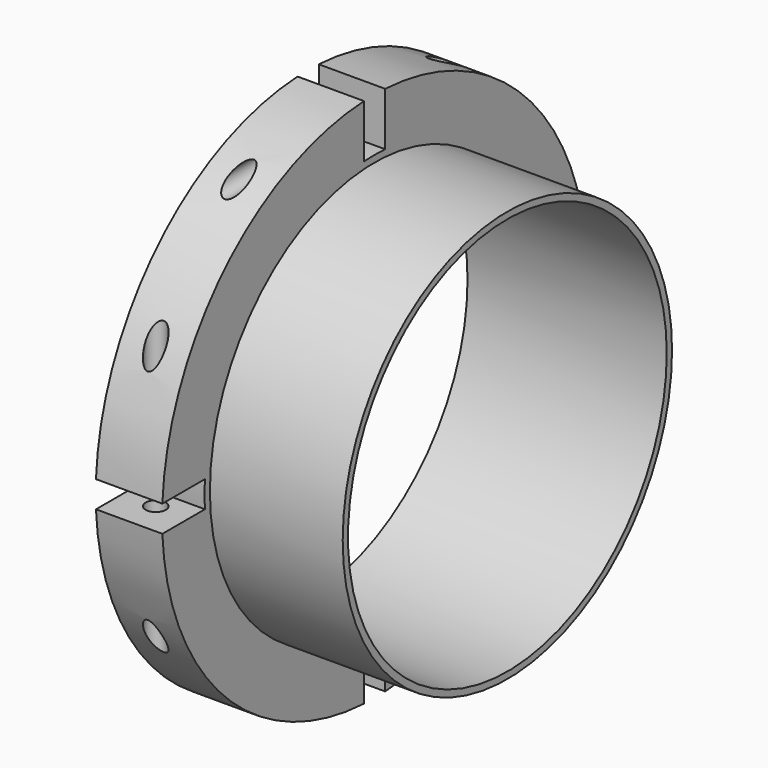
from build123d import *

# Parameters (mm, degrees)
F0_R      = 50.8
F0_R_2    = 38.1
F1_DEPTH  = 19.05
F2_R      = 50.8
F2_R_2    = 39.37
F3_DEPTH  = 25.4
F5_DEPTH  = 12.7
F6_DEPTH  = 12.7
F7_R      = 1.9177
F8_DEPTH  = 31.75
F9_R      = 1.9177
F10_DEPTH = 31.75
F11_R     = 1.9177
F12_DEPTH = 31.75
F13_R     = 1.9177
F14_DEPTH = 31.75


with BuildPart() as f1:
    # F0 (on Right) → F1 (new body, symmetric)
    with BuildSketch(Plane.YZ):
        Circle(F0_R)
        Circle(F0_R_2, mode=Mode.SUBTRACT)
    extrude(amount=F1_DEPTH, both=True)

    # F2 (on face) → F3 (cut)
    with BuildSketch(Plane.YZ.offset(19.05)):
        Circle(F2_R)
        Circle(F2_R_2, mode=Mode.SUBTRACT)
    extrude(amount=-F3_DEPTH, mode=Mode.SUBTRACT)

    # F4 (on face) → F5 (cut)
    with BuildSketch(Plane(origin=(-19.05, 0, 0), x_dir=(0, -1, 0), z_dir=(-1, 0, 0))):
        with BuildLine():
            Line((40.560758, -2.536629), (52.733429, -2.536629))
            Line((52.733429, -2.536629), (52.733429, 2.536629))
            Line((52.733429, 2.536629), (40.560758, 2.536629))
            ThreePointArc((40.560758, 2.536629), (40.64, 0), (40.560758, -2.536629))
        make_face()
        with BuildLine():
            Line((-59.67196, -2.536629), (-40.560758, -2.536629))
            ThreePointArc((-40.560758, -2.536629), (-40.64, 0), (-40.560758, 2.536629))
            Line((-40.560758, 2.536629), (-59.67196, 2.536629))
            Line((-59.67196, 2.536629), (-59.67196, -2.536629))
        make_face()
        with BuildLine():
            Line((-2.536629, -60.94672), (2.536629, -60.94672))
            Line((2.536629, -60.94672), (2.536629, -40.560758))
            ThreePointArc((2.536629, -40.560758), (0, -40.64), (-2.536629, -40.560758))
            Line((-2.536629, -40.560758), (-2.536629, -60.94672))
        make_face()
        with BuildLine():
            Line((2.536629, 40.560758), (2.536629, 60.431999))
            Line((2.536629, 60.431999), (-2.536629, 60.431999))
            Line((-2.536629, 60.431999), (-2.536629, 40.560758))
            ThreePointArc((-2.536629, 40.560758), (0, 40.64), (2.536629, 40.560758))
        make_face()
    extrude(amount=-F5_DEPTH, mode=Mode.SUBTRACT)

    # F4 (on face) → F6 (cut)
    with BuildSketch(Plane(origin=(-19.05, 0, 0), x_dir=(0, -1, 0), z_dir=(-1, 0, 0))):
        with BuildLine():
            Line((40.560758, -2.536629), (52.733429, -2.536629))
            Line((52.733429, -2.536629), (52.733429, 2.536629))
            Line((52.733429, 2.536629), (40.560758, 2.536629))
            ThreePointArc((40.560758, 2.536629), (40.64, 0), (40.560758, -2.536629))
        make_face()
        with BuildLine():
            Line((-59.67196, -2.536629), (-40.560758, -2.536629))
            ThreePointArc((-40.560758, -2.536629), (-40.64, 0), (-40.560758, 2.536629))
            Line((-40.560758, 2.536629), (-59.67196, 2.536629))
            Line((-59.67196, 2.536629), (-59.67196, -2.536629))
        make_face()
        with BuildLine():
            Line((-2.536629, -60.94672), (2.536629, -60.94672))
            Line((2.536629, -60.94672), (2.536629, -40.560758))
            ThreePointArc((2.536629, -40.560758), (0, -40.64), (-2.536629, -40.560758))
            Line((-2.536629, -40.560758), (-2.536629, -60.94672))
        make_face()
        with BuildLine():
            Line((2.536629, 40.560758), (2.536629, 60.431999))
            Line((2.536629, 60.431999), (-2.536629, 60.431999))
            Line((-2.536629, 60.431999), (-2.536629, 40.560758))
            ThreePointArc((-2.536629, 40.560758), (0, 40.64), (2.536629, 40.560758))
        make_face()
    extrude(amount=-F6_DEPTH, mode=Mode.SUBTRACT)

    # F7 (on face) → F8 (cut, symmetric)
    with BuildSketch(Plane(origin=(0, 0, 2.536629), x_dir=(1, 0, 0), z_dir=(0, 0, -1))):
        with Locations((-12.7, 44.37585)):
            Circle(F7_R)
    extrude(amount=F8_DEPTH, both=True, mode=Mode.SUBTRACT)

    # F9 (on face) → F10 (cut, symmetric)
    with BuildSketch(Plane.XY.offset(-2.536629)):
        with Locations((-12.7, 44.37585)):
            Circle(F9_R)
    extrude(amount=F10_DEPTH, both=True, mode=Mode.SUBTRACT)

    # F11 (on face) → F12 (cut, symmetric)
    with BuildSketch(Plane.XZ.offset(-2.536629)):
        with Locations((-12.7, 44.37585)):
            Circle(F11_R)
    extrude(amount=F12_DEPTH, both=True, mode=Mode.SUBTRACT)

    # F13 (on face) → F14 (cut, symmetric)
    with BuildSketch(Plane(origin=(0, -2.536629, 0), x_dir=(-1, 0, 0), z_dir=(0, 1, 0))):
        with Locations((12.7, -44.37585)):
            Circle(F13_R)
    extrude(amount=F14_DEPTH, both=True, mode=Mode.SUBTRACT)


solid = f1.part
